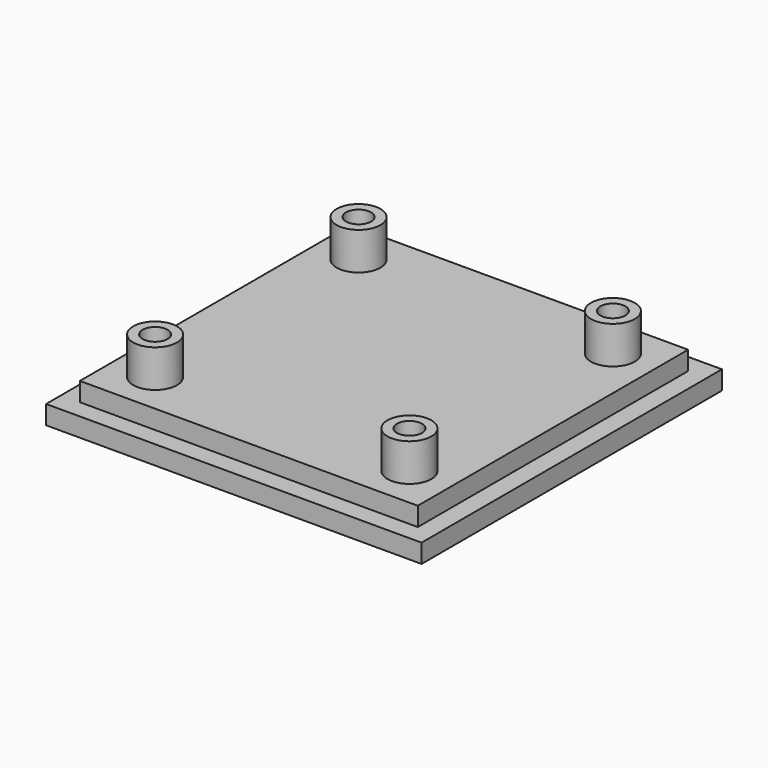
from build123d import *

# Parameters (mm, degrees)
SKETCH_W     = 60
SKETCH_H     = 60
PAD_DEPTH    = 3
SKETCH001_W  = 54
SKETCH001_H  = 54
PAD001_DEPTH = 3
SKETCH002_R  = 3.5
PAD002_DEPTH = 6
SKETCH003_R  = 2
POCKET_DEPTH = 8


with BuildPart() as part:
    # Sketch → Pad (new body)
    with BuildSketch(Plane.XY):
        Rectangle(SKETCH_W, SKETCH_H)
    extrude(amount=PAD_DEPTH)

    # Sketch001 (on Face6 of Pad) → Pad001 (join)
    with BuildSketch(Plane.XY.offset(3)):
        Rectangle(SKETCH001_W, SKETCH001_H)
    extrude(amount=PAD001_DEPTH)

    # Sketch002 (on Face11 of Pad001) → Pad002 (join)
    with BuildSketch(Plane.XY.offset(6)):
        with Locations((-20.32, 20.32)):
            Circle(SKETCH002_R)
        with Locations((20.32, 20.32)):
            Circle(SKETCH002_R)
        with Locations((20.32, -20.32)):
            Circle(SKETCH002_R)
        with Locations((-20.32, -20.32)):
            Circle(SKETCH002_R)
    extrude(amount=PAD002_DEPTH)

    # Sketch003 (on Face19 of Pad002) → Pocket (cut)
    with BuildSketch(Plane.XY.offset(12)):
        with Locations((-20.32, 20.32)):
            Circle(SKETCH003_R)
        with Locations((20.32, 20.32)):
            Circle(SKETCH003_R)
        with Locations((20.32, -20.32)):
            Circle(SKETCH003_R)
        with Locations((-20.32, -20.32)):
            Circle(SKETCH003_R)
    extrude(amount=-POCKET_DEPTH, mode=Mode.SUBTRACT)


solid = part.part
